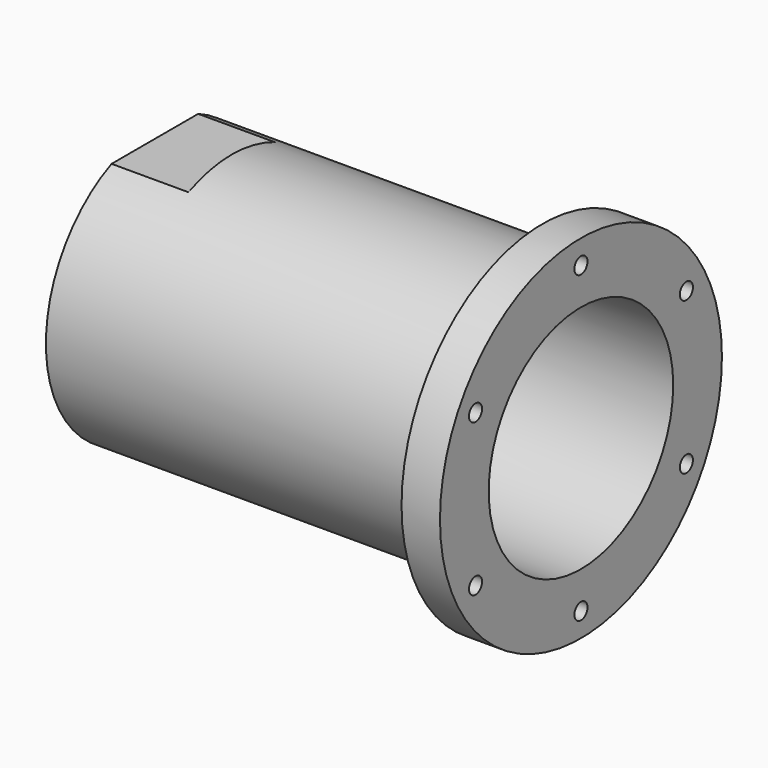
from build123d import *

# Parameters (mm, degrees)
F0_R      = 42.5
F1_DEPTH  = 66.5
F2_R      = 55
F3_DEPTH  = 12
F5_D      = 5.1054
F6_R      = 30
F7_DEPTH  = 30
F7_TAPER  = 3
F8_R      = 30
F9_DEPTH  = 103
F11_R     = 36
F12_DEPTH = 63
F13_W     = 105.4392717779
F13_H     = 18.3104768991
F14_DEPTH = 24


with BuildPart() as f1:
    # F0 (on Right) → F1 (new body, symmetric)
    with BuildSketch(Plane.YZ):
        Circle(F0_R)
    extrude(amount=F1_DEPTH, both=True)

    # F2 (on face) → F3 (join)
    with BuildSketch(Plane.YZ.offset(66.5)):
        Circle(F2_R)
    extrude(amount=-F3_DEPTH)

    # F5 (through all)
    with Locations(Plane.YZ.offset(66.5)):
        with Locations((0, 47.5), (-41.1362066798, 23.75), (-41.1362066798, -23.75), (0, -47.5), (41.1362066798, -23.75), (41.1362066798, 23.75)):
            Hole(F5_D / 2)

    # F6 (on face) → F7 (cut)
    with BuildSketch(Plane(origin=(-66.5, 0, 0), x_dir=(0, -1, 0), z_dir=(-1, 0, 0))):
        Circle(F6_R)
    extrude(amount=-F7_DEPTH, taper=F7_TAPER, mode=Mode.SUBTRACT)

    # F8 (on face) → F9 (cut, through all)
    with BuildSketch(Plane.YZ.offset(66.5)):
        Circle(F8_R)
    extrude(amount=-F9_DEPTH, mode=Mode.SUBTRACT)

    # F11 (on offset) → F12 (cut, through all)
    with BuildSketch(Plane.YZ.offset(3.5)):
        Circle(F11_R)
    extrude(amount=F12_DEPTH, mode=Mode.SUBTRACT)

    # F13 (on face) → F14 (cut)
    with BuildSketch(Plane(origin=(-66.5, 0, 0), x_dir=(0, -1, 0), z_dir=(-1, 0, 0))):
        with Locations((-0.2345982939, 48.1552384496)):
            Rectangle(F13_W, F13_H)
        with Locations((-0.2345982939, -48.1552384496)):
            Rectangle(F13_W, F13_H)
    extrude(amount=-F14_DEPTH, mode=Mode.SUBTRACT)


solid = f1.part
